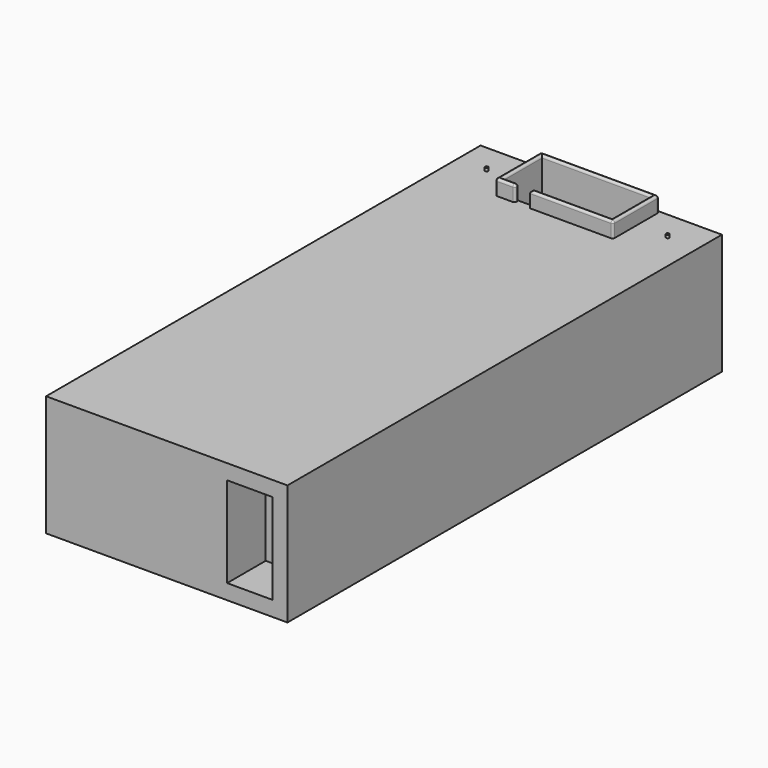
from build123d import *

# Parameters (mm, degrees)
F0_W     = 800
F0_H     = 1800
F1_DEPTH = 400
F2_W     = 180
F2_H     = 160
F3_DEPTH = 250
F2_W_2   = 80
F2_H_2   = 15
F4_DEPTH = 50
F5_R     = 7
F2_R     = 5
F6_DEPTH = 10
F7_W     = 150
F7_H     = 300
F8_DEPTH = 160


with BuildPart() as f1:
    # F0 (on Top) → F1 (new body)
    with BuildSketch(Plane.XY):
        Rectangle(F0_W, F0_H)
    extrude(amount=F1_DEPTH)

    # F2 (on face) → F3 (cut)
    with BuildSketch(Plane.XY.offset(400)):
        Polygon((0, 720), (0, 880), (-180, 880), (-180, 720), (-130, 720), (-80, 720), align=None)
        with Locations((90, 800)):
            Rectangle(F2_W, F2_H)
    extrude(amount=-F3_DEPTH, mode=Mode.SUBTRACT)

    # F2 (on face) → F4 (join)
    with BuildSketch(Plane.XY.offset(400)):
        Polygon((0, 880), (0, 895), (-195, 895), (-195, 705), (-130, 705), (-130, 720), (-180, 720), (-180, 880), align=None)
        Polygon((195, 895), (0, 895), (0, 880), (180, 880), (180, 720), (0, 720), (0, 705), (195, 705), align=None)
        with Locations((-40, 712.5)):
            Rectangle(F2_W_2, F2_H_2)
    extrude(amount=F4_DEPTH)

    # F5
    f5_edges = [f1.edges().sort_by_distance(p)[0] for p in [
        (0, 895, 450),
        (-195, 800, 450),
        (-162.5, 705, 450),
        (-130, 712.5, 450),
        (-155, 720, 450),
        (-180, 800, 450),
        (0, 880, 450),
        (180, 800, 450),
        (50, 720, 450),
        (-80, 712.5, 450),
        (57.5, 705, 450),
        (195, 800, 450),
        (-130, 705, 425),
        (-130, 720, 425),
        (-195, 705, 425),
        (195, 705, 425),
        (195, 895, 425),
        (-195, 895, 425),
    ]]
    fillet(f5_edges, radius=F5_R)

    # F2 (on face) → F6 (join)
    with BuildSketch(Plane.XY.offset(400)):
        with Locations((-300, 800)):
            Circle(F2_R)
        with Locations((300, 800)):
            Circle(F2_R)
    extrude(amount=F6_DEPTH)

    # F7 (on face) → F8 (cut)
    with BuildSketch(Plane.XZ.offset(900)):
        with Locations((275, 200)):
            Rectangle(F7_W, F7_H)
    extrude(amount=-F8_DEPTH, mode=Mode.SUBTRACT)


solid = f1.part
